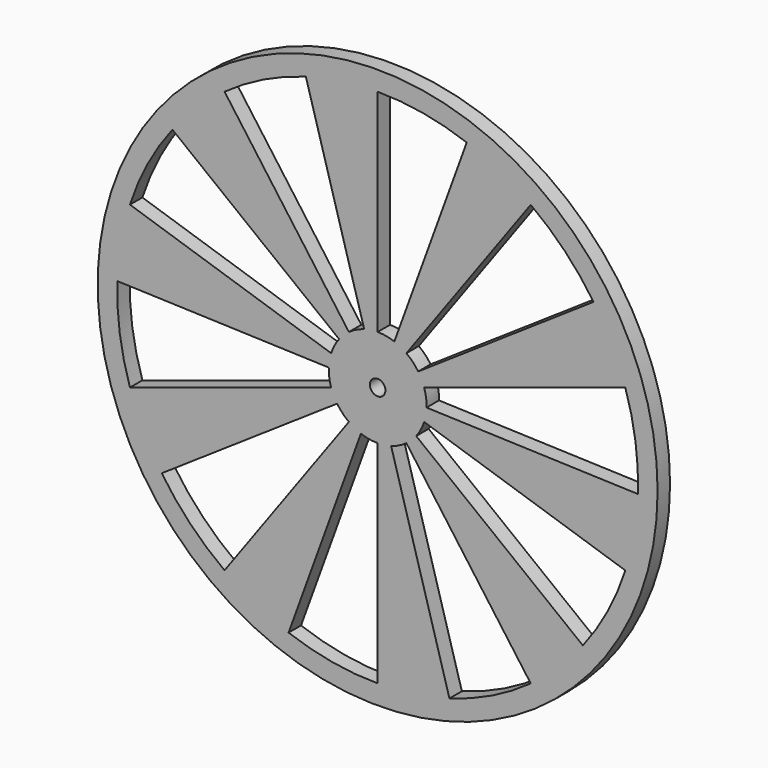
from build123d import *

# Parameters (mm, degrees)
F0_R     = 57.15
F0_R_2   = 1.5875
F1_DEPTH = 3.175


with BuildPart() as f1:
    # F0 (on Front) → F1 (new body)
    with BuildSketch(Plane.XZ):
        Circle(F0_R)
        with BuildLine():
            ThreePointArc((0, -53.161082), (-9.231325, -52.353446), (-18.182161, -49.955077))
            Line((-18.182161, -49.955077), (-3.415888, -9.385075))
            ThreePointArc((-3.415888, -9.385075), (-1.734292, -9.835657), (0, -9.987388))
            Line((0, -9.987388), (0, -53.161082))
        make_face(mode=Mode.SUBTRACT)
        with BuildLine():
            ThreePointArc((-50.559194, -16.427678), (-52.643722, -7.398593), (-53.128698, 1.855295))
            Line((-53.128698, 1.855295), (-9.981304, 0.348555))
            ThreePointArc((-9.981304, 0.348555), (-9.890191, -1.389976), (-9.49857, -3.086273))
            Line((-9.49857, -3.086273), (-50.559194, -16.427678))
        make_face(mode=Mode.SUBTRACT)
        with BuildLine():
            ThreePointArc((-31.2473, -43.008219), (-38.240882, -36.928791), (-44.072535, -29.7273))
            Line((-44.072535, -29.7273), (-8.27992, -5.584876))
            ThreePointArc((-8.27992, -5.584876), (-7.184326, -6.937823), (-5.870439, -8.079966))
            Line((-5.870439, -8.079966), (-31.2473, -43.008219))
        make_face(mode=Mode.SUBTRACT)
        with BuildLine():
            ThreePointArc((31.2473, -43.008219), (23.304285, -47.780864), (14.65318, -51.101712))
            Line((14.65318, -51.101712), (2.752897, -9.600493))
            ThreePointArc((2.752897, -9.600493), (4.378183, -8.976605), (5.870439, -8.079966))
            Line((5.870439, -8.079966), (31.2473, -43.008219))
        make_face(mode=Mode.SUBTRACT)
        with BuildLine():
            ThreePointArc((50.559194, -16.427678), (46.93845, -24.957616), (41.891505, -32.72923))
            Line((41.891505, -32.72923), (7.870169, -6.14885))
            ThreePointArc((7.870169, -6.14885), (8.81834, -4.688795), (9.49857, -3.086273))
            Line((9.49857, -3.086273), (50.559194, -16.427678))
        make_face(mode=Mode.SUBTRACT)
        with BuildLine():
            ThreePointArc((-50.559194, 16.427678), (-46.93845, 24.957616), (-41.891505, 32.72923))
            Line((-41.891505, 32.72923), (-7.870169, 6.14885))
            ThreePointArc((-7.870169, 6.14885), (-8.81834, 4.688795), (-9.49857, 3.086273))
            Line((-9.49857, 3.086273), (-50.559194, 16.427678))
        make_face(mode=Mode.SUBTRACT)
        with BuildLine():
            ThreePointArc((-31.2473, 43.008219), (-23.304285, 47.780864), (-14.65318, 51.101712))
            Line((-14.65318, 51.101712), (-2.752897, 9.600493))
            ThreePointArc((-2.752897, 9.600493), (-4.378183, 8.976605), (-5.870439, 8.079966))
            Line((-5.870439, 8.079966), (-31.2473, 43.008219))
        make_face(mode=Mode.SUBTRACT)
        Circle(F0_R_2, mode=Mode.SUBTRACT)
        with BuildLine():
            ThreePointArc((31.2473, 43.008219), (38.240882, 36.928791), (44.072535, 29.7273))
            Line((44.072535, 29.7273), (8.27992, 5.584876))
            ThreePointArc((8.27992, 5.584876), (7.184326, 6.937823), (5.870439, 8.079966))
            Line((5.870439, 8.079966), (31.2473, 43.008219))
        make_face(mode=Mode.SUBTRACT)
        with BuildLine():
            ThreePointArc((50.559194, 16.427678), (52.643722, 7.398593), (53.128698, -1.855295))
            Line((53.128698, -1.855295), (9.981304, -0.348555))
            ThreePointArc((9.981304, -0.348555), (9.890191, 1.389976), (9.49857, 3.086273))
            Line((9.49857, 3.086273), (50.559194, 16.427678))
        make_face(mode=Mode.SUBTRACT)
        with BuildLine():
            ThreePointArc((0, 53.161082), (9.231325, 52.353446), (18.182161, 49.955077))
            Line((18.182161, 49.955077), (3.415888, 9.385075))
            ThreePointArc((3.415888, 9.385075), (1.734292, 9.835657), (0, 9.987388))
            Line((0, 9.987388), (0, 53.161082))
        make_face(mode=Mode.SUBTRACT)
    extrude(amount=F1_DEPTH)


solid = f1.part
